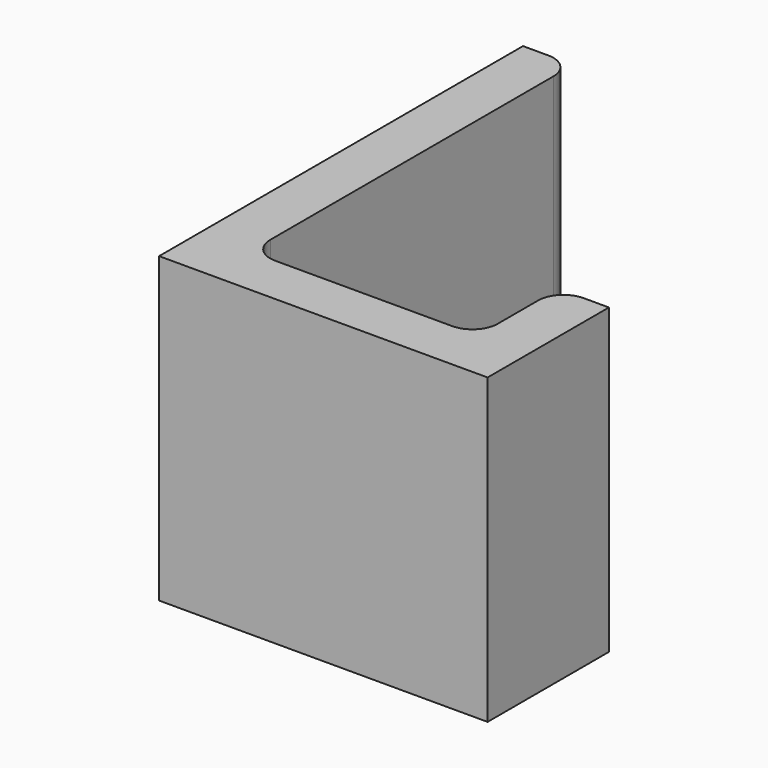
from build123d import *

# Parameters (mm, degrees)
F0_W     = 10
F0_H     = 20
F0_H_2   = 80
F1_DEPTH = 60
F2_R     = 5


with BuildPart() as f1:
    # F0 (on Top) → F1 (new body)
    with BuildSketch(Plane.XY):
        Polygon((-65, 0), (0, 0), (0, 10), (-10, 10), (-55, 10), (-65, 10), align=None)
        with Locations((-5, 20)):
            Rectangle(F0_W, F0_H)
        with Locations((-60, 50)):
            Rectangle(F0_W, F0_H_2)
    extrude(amount=F1_DEPTH)

    # F2
    f2_edges = [f1.edges().sort_by_distance(p)[0] for p in [
        (-55, 10, 30),
        (-10, 10, 30),
        (-55, 90, 30),
        (-10, 30, 30),
    ]]
    fillet(f2_edges, radius=F2_R)


solid = f1.part
